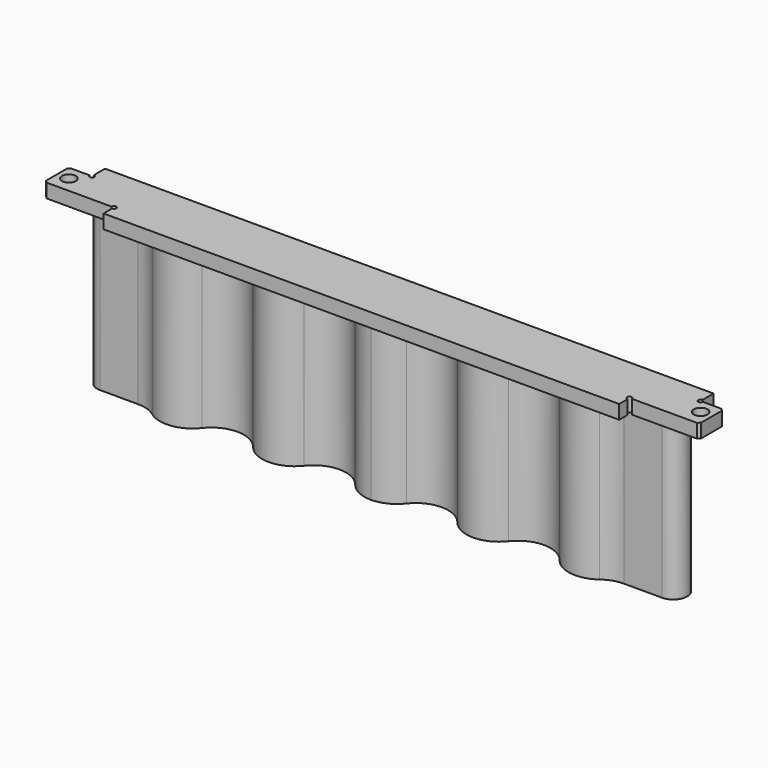
from build123d import *

# Parameters (mm, degrees)
PAD_DEPTH       = 34.25
SKETCH001_R     = 1.25
POCKET_DEPTH    = 10
SKETCH002_W     = 70.5
SKETCH002_H     = 12.89
PAD001_DEPTH    = 3
SKETCH003_W     = 15
SKETCH003_H     = 2.8
POCKET001_DEPTH = 37.251
SKETCH004_W     = 5
SKETCH004_H     = 3.5
POCKET002_DEPTH = 37.251
SKETCH005_R     = 1.5
POCKET003_DEPTH = 37.251
SKETCH006_R     = 0.5
POCKET004_DEPTH = 37.251
CHAMFER_SIZE    = 0.5


with BuildPart() as part:
    # Sketch → Pad (new body)
    with BuildSketch(Plane.XY):
        with BuildLine():
            Line((52.305921, 0), (60.5, 0))
            ThreePointArc((60.5, 0), (63.426078, 3.661869), (59.208881, 5.707953))
            Line((59.208881, 5.707953), (48.64775, 0.672534))
            ThreePointArc((48.64775, 0.672534), (47.930845, 0.287572), (47.254036, -0.164179))
            ThreePointArc((39.665197, 0.854908), (43.253158, -1.19207), (47.254036, -0.164179))
            ThreePointArc((39.665197, 0.854908), (32.988877, 4.094039), (26.312556, 0.854908))
            ThreePointArc((17.672613, 0.854908), (21.992584, -1.241), (26.312556, 0.854908))
            ThreePointArc((17.672613, 0.854908), (10.996292, 4.094039), (4.319972, 0.854908))
            ThreePointArc((0, -1.241), (2.400781, -0.689359), (4.319972, 0.854908))
            Line((0, -2.741), (0, -1.241))
            ThreePointArc((0, -2.741), (3.055539, -2.038911), (5.498146, -0.073481))
            ThreePointArc((16.494438, -0.073481), (10.996292, 2.594039), (5.498146, -0.073481))
            ThreePointArc((16.494438, -0.073481), (21.992584, -2.741), (27.490731, -0.073481))
            ThreePointArc((38.487023, -0.073481), (32.988877, 2.594039), (27.490731, -0.073481))
            ThreePointArc((38.487023, -0.073481), (43.053519, -2.678725), (48.145545, -1.3705))
            ThreePointArc((52.305921, 0), (50.115773, -0.351448), (48.145545, -1.3705))
        make_face()
    extrude(amount=PAD_DEPTH)

    # Sketch001 (on Face17 of Pad) → Pocket (cut)
    with BuildSketch(Plane(origin=(0, 0, 0), x_dir=(1, 0, 0), z_dir=(0, 0, -1))):
        with Locations((60.5, -3)):
            Circle(SKETCH001_R)
    extrude(amount=-POCKET_DEPTH, mode=Mode.SUBTRACT)

    # Sketch002 (on Face5 of Pocket) → Pad001 (join)
    with BuildSketch(Plane.XY.offset(34.25)):
        with Locations((35.25, 1.145)):
            Rectangle(SKETCH002_W, SKETCH002_H)
    extrude(amount=PAD001_DEPTH)

    # Sketch003 (on Face23 of Pad001) → Pocket001 (cut, through all)
    with BuildSketch(Plane.XY.offset(37.25)):
        with Locations((63, -3.9)):
            Rectangle(SKETCH003_W, SKETCH003_H)
    extrude(amount=-POCKET001_DEPTH, mode=Mode.SUBTRACT)

    # Sketch004 (on Face25 of Pocket001) → Pocket002 (cut, through all)
    with BuildSketch(Plane.XY.offset(37.25)):
        with Locations((68, 5.84)):
            Rectangle(SKETCH004_W, SKETCH004_H)
    extrude(amount=-POCKET002_DEPTH, mode=Mode.SUBTRACT)

    # Sketch005 (on Face27 of Pocket002) → Pocket003 (cut, through all)
    with BuildSketch(Plane.XY.offset(37.25)):
        with Locations((68, 1)):
            Circle(SKETCH005_R)
    extrude(amount=-POCKET003_DEPTH, mode=Mode.SUBTRACT)

    # Sketch006 (on Face28 of Pocket003) → Pocket004 (cut, through all)
    with BuildSketch(Plane.XY.offset(37.25)):
        with Locations((65.5, 4.09)):
            Circle(SKETCH006_R)
        with Locations((55.5, -2.5)):
            Circle(SKETCH006_R)
    extrude(amount=-POCKET004_DEPTH, mode=Mode.SUBTRACT)

    # Chamfer
    chamfer_edges = [part.edges().sort_by_distance(p)[0] for p in [
        (70.5, 4.09, 35.75),
        (70.5, -2.5, 35.75),
    ]]
    chamfer(chamfer_edges, length=CHAMFER_SIZE)

    # Mirrored: part across YZ


with BuildPart() as part_1:
    add(part.part)
    add(part.part.mirror(Plane.YZ))


solid = part_1.part
